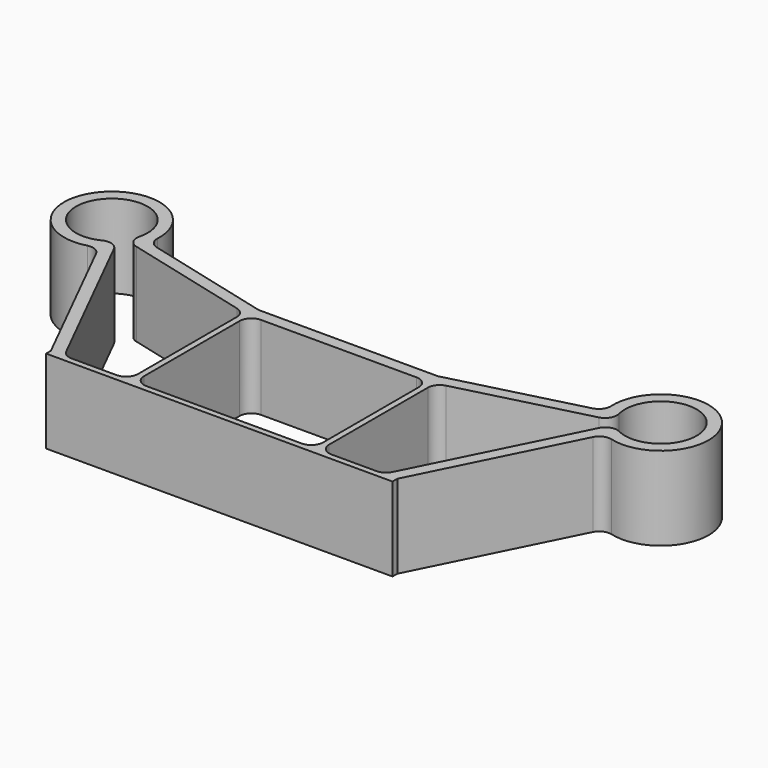
from build123d import *

# Parameters (mm, degrees)
F1_DEPTH = 7
F2_R     = 1
F3_R     = 1


with BuildPart() as f1:
    # F0 (on Top) → F1 (new body)
    with BuildSketch(Plane.XY):
        with BuildLine():
            ThreePointArc((20.490715, 21.30806), (25.314352, 24.866528), (20.822566, 20.897394))
            Line((20.822566, 20.897394), (13.382216, 6))
            Line((13.382216, 6), (14.5, 6))
            Line((14.5, 6), (21.19372, 19.40246))
            ThreePointArc((21.19372, 19.40246), (26.092146, 25.495048), (19.107008, 21.984771))
            Line((19.107008, 21.984771), (7.5, 19))
            Line((7.5, 19), (0, 19))
            Line((0, 19), (0, 18))
            Line((0, 18), (7.5, 18))
            Line((7.5, 18), (7.626518, 18))
            Line((7.626518, 18), (8, 18.096042))
            Line((8, 18.096042), (20.490715, 21.30806))
        make_face()
        Polygon((14.5, 6), (13.382216, 6), (8, 6), (7.5, 6), (0, 6), (0, 5.5), (14.5, 5.5), align=None)
        Polygon((8, 6), (8, 18.096042), (7.626518, 18), (7.5, 18), (7.5, 6), align=None)
    extrude(amount=F1_DEPTH)

    # F2
    f2_edges = [f1.edges().sort_by_distance(p)[0] for p in [
        (21.19372, 19.40246, 3.5),
        (20.822566, 20.897394, 3.5),
        (20.490715, 21.30806, 3.5),
        (19.107008, 21.984771, 3.5),
    ]]
    fillet(f2_edges, radius=F2_R)

    # F3
    f3_edges = [f1.edges().sort_by_distance(p)[0] for p in [
        (8, 18.096042, 3.5),
        (13.382216, 6, 3.5),
        (8, 6, 3.5),
        (7.5, 18, 3.5),
        (7.5, 6, 3.5),
    ]]
    fillet(f3_edges, radius=F3_R)

    # F4: F1 across plane


with BuildPart() as f1_1:
    add(f1.part)
    add(f1.part.mirror(Plane.YZ))


solid = f1_1.part
